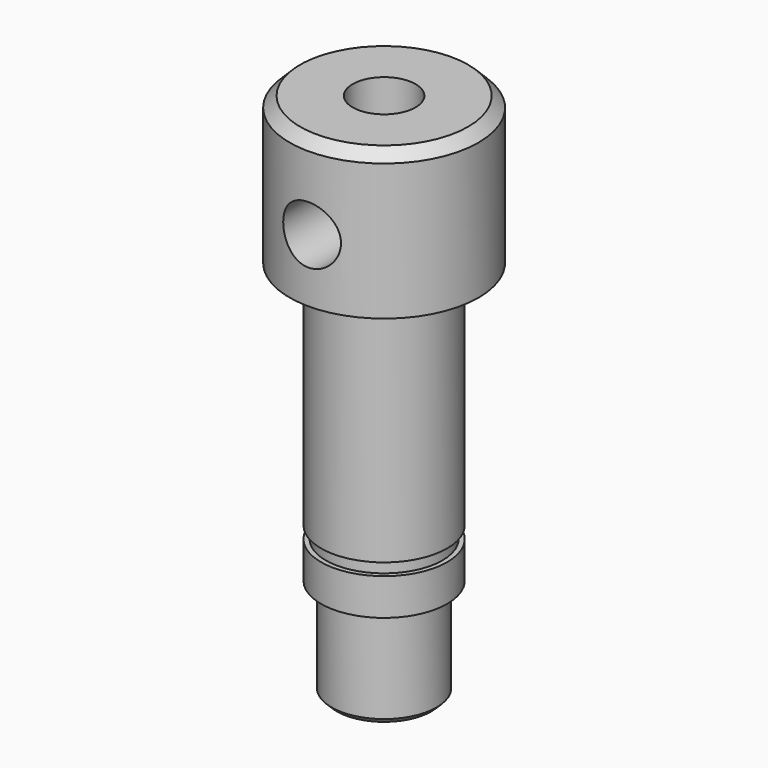
from build123d import *

# Parameters (mm, degrees)
F0_R      = 9
F1_DEPTH  = 14
F2_R      = 6
F3_DEPTH  = 22
F4_R      = 5.55
F5_DEPTH  = 1.15
F6_R      = 6
F7_DEPTH  = 3.5
F8_R      = 5
F9_DEPTH  = 9.5
F10_SIZE  = 0.5
F11_SIZE  = 1
F13_D     = 6
F13_DEPTH = 22
F13_TIP   = 1.8025818571
F15_D     = 5.5
F15_DEPTH = 22
F15_TIP   = 1.6523667023


with BuildPart() as f1:
    # F0 (on Top) → F1 (new body)
    with BuildSketch(Plane.XY):
        Circle(F0_R)
    extrude(amount=F1_DEPTH)

    # F2 (on face) → F3 (join)
    with BuildSketch(Plane(origin=(0, 0, 0), x_dir=(1, 0, 0), z_dir=(0, 0, -1))):
        Circle(F2_R)
    extrude(amount=F3_DEPTH)

    # F4 (on face) → F5 (join)
    with BuildSketch(Plane(origin=(0, 0, -22), x_dir=(1, 0, 0), z_dir=(0, 0, -1))):
        Circle(F4_R)
    extrude(amount=F5_DEPTH)

    # F6 (on face) → F7 (join)
    with BuildSketch(Plane(origin=(0, 0, -23.15), x_dir=(1, 0, 0), z_dir=(0, 0, -1))):
        Circle(F6_R)
    extrude(amount=F7_DEPTH)

    # F8 (on face) → F9 (join)
    with BuildSketch(Plane(origin=(0, 0, -26.65), x_dir=(1, 0, 0), z_dir=(0, 0, -1))):
        Circle(F8_R)
    extrude(amount=F9_DEPTH)

    # F10
    f10_edges = [f1.edges().sort_by_distance(p)[0] for p in [
        (-5, 0, -36.15),
    ]]
    chamfer(f10_edges, length=F10_SIZE)

    # F11
    f11_edges = [f1.edges().sort_by_distance(p)[0] for p in [
        (-9, 0, 14),
    ]]
    chamfer(f11_edges, length=F11_SIZE)

    # F13
    with Locations(Plane.XY.offset(14)):
        with Locations((0, 0)):
            Hole(F13_D / 2, depth=F13_DEPTH)
            with Locations((0, 0, -(F13_DEPTH + F13_TIP / 2))):  # 118° drill point
                Cone(0, F13_D / 2, F13_TIP, mode=Mode.SUBTRACT)

    # F15 (one way)
    with BuildSketch(Plane(origin=(0, 0, 0), x_dir=(1, 0, 0), z_dir=(0, 1, 0))):
        with Locations((0, -6)):
            Circle(F15_D / 2)
    extrude(amount=-F15_DEPTH, mode=Mode.SUBTRACT)
    with Locations(Plane(origin=(0, 0, 0), x_dir=(1, 0, 0), z_dir=(0, 1, 0))):
        with Locations((0, -6)):
            with Locations((0, 0, -(F15_DEPTH + F15_TIP / 2))):  # 118° drill point
                Cone(0, F15_D / 2, F15_TIP, mode=Mode.SUBTRACT)


solid = f1.part
